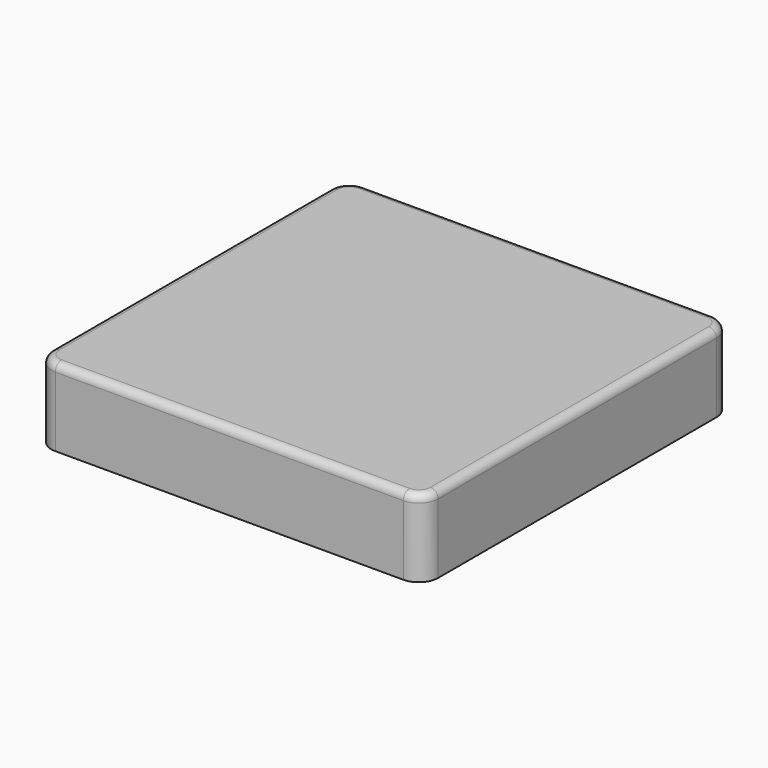
from build123d import *

# Parameters (mm, degrees)
F1_DEPTH = 25.4
F2_R     = 2.54


with BuildPart() as f1:
    # F0 (on Top) → F1 (new body)
    with BuildSketch(Plane.XY):
        with BuildLine():
            Line((57.15, 63.5), (-57.15, 63.5))
            ThreePointArc((-57.15, 63.5), (-61.640128, 61.640128), (-63.5, 57.15))
            Line((-63.5, 57.15), (-63.5, -57.15))
            ThreePointArc((-63.5, -57.15), (-61.640128, -61.640128), (-57.15, -63.5))
            Line((-57.15, -63.5), (57.15, -63.5))
            ThreePointArc((57.15, -63.5), (61.640128, -61.640128), (63.5, -57.15))
            Line((63.5, -57.15), (63.5, 57.15))
            ThreePointArc((63.5, 57.15), (61.640128, 61.640128), (57.15, 63.5))
        make_face()
    extrude(amount=F1_DEPTH)

    # F2
    f2_edges = [f1.edges().sort_by_distance(p)[0] for p in [
        (63.5, 0, 25.4),
    ]]
    fillet(f2_edges, radius=F2_R)


solid = f1.part
